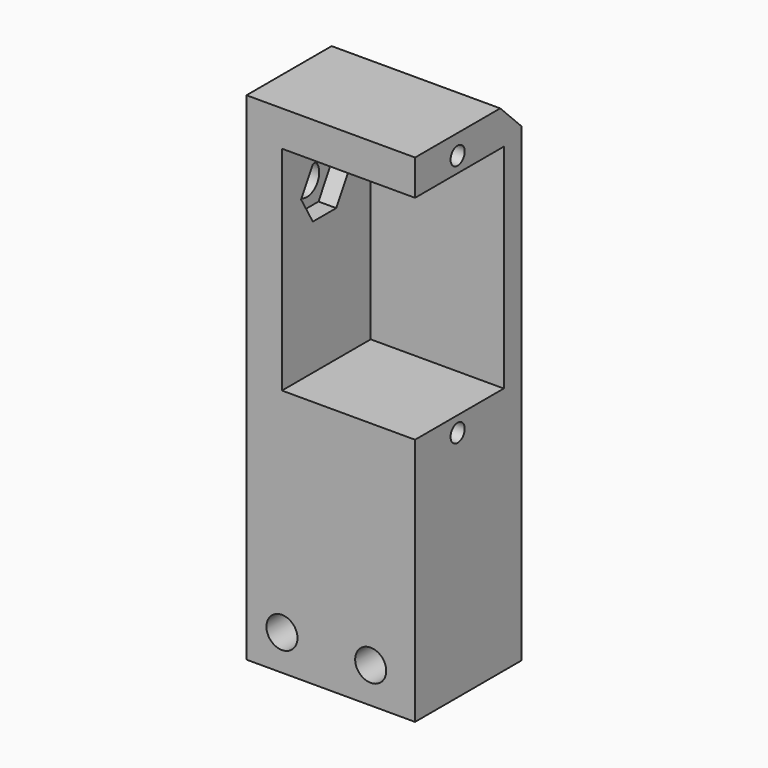
from build123d import *

# Parameters (mm, degrees)
CYLINDER075_R          = 1.75
CYLINDER075_DEPTH      = 32
PRISM001_DEPTH         = 10
SKETCH015_R            = 1
SKETCH015_W            = 24
SKETCH015_H            = 13
PAD010_DEPTH           = 30
CYLINDER073_R          = 1.75
CYLINDER073_DEPTH      = 32
CYLINDER073_ROLL_ANGLE = -90
CYLINDER074_R          = 1.75
CYLINDER074_DEPTH      = 32
CYLINDER074_ROLL_ANGLE = -90
BOX054_W               = 19
BOX054_H               = 15
BOX054_DEPTH           = 56
CHAMFER108_SIZE        = 3


with BuildPart() as cilindro016:
    # Cylinder075 → Cylinder075 (new body)
    with BuildSketch(Plane(origin=(-5, 104, 125.85), x_dir=(0, -1, 0), z_dir=(1, 0, 0))):
        Circle(CYLINDER075_R)
    extrude(amount=CYLINDER075_DEPTH)


with BuildPart() as fusion057:
    # Prism001 → Prism001 (new body)
    with BuildSketch(Plane(origin=(6, 104, 125.85), x_dir=(0, -1, 0), z_dir=(1, 0, 0))):
        Polygon((3.3, 0), (1.65, 2.857884), (-1.65, 2.857884), (-3.3, 0), (-1.65, -2.857884), (1.65, -2.857884), align=None)
    extrude(amount=PRISM001_DEPTH)

    # Fusion057: union Cilindro016
    add(cilindro016.part)


with BuildPart() as pad010:
    # Sketch015 → Pad010 (new body)
    with BuildSketch(Plane(origin=(38, -16, 143.25), x_dir=(0, 0, -1), z_dir=(1, 0, 0))):
        with Locations((37, 120)):
            Circle(SKETCH015_R)
        with Locations((9.5, 120)):
            Circle(SKETCH015_R)
        with Locations((23.25, 120)):
            Rectangle(SKETCH015_W, SKETCH015_H)
    extrude(amount=-PAD010_DEPTH)


with BuildPart() as cilindro014:
    # Cylinder073 → Cylinder073 (new body)
    with BuildSketch(Plane.XY):
        Circle(CYLINDER073_R)
    extrude(amount=CYLINDER073_DEPTH)


with BuildPart() as cilindro014_1:
    # Cylinder073 roll: moved
    add(cilindro014.part.rotate(Axis((0, 0, 0), (1, 0, 0)), CYLINDER073_ROLL_ANGLE))


with BuildPart() as cilindro014_2:
    # Cylinder073 placement: moved
    add(cilindro014_1.part.moved(Location((8, 90, 84))))


with BuildPart() as fusion056:
    # Cylinder074 → Cylinder074 (new body)
    with BuildSketch(Plane.XY):
        Circle(CYLINDER074_R)
    extrude(amount=CYLINDER074_DEPTH)


with BuildPart() as fusion056_1:
    # Cylinder074 roll: moved
    add(fusion056.part.rotate(Axis((0, 0, 0), (1, 0, 0)), CYLINDER074_ROLL_ANGLE))


with BuildPart() as fusion056_2:
    # Cylinder074 placement: moved
    add(fusion056_1.part.moved(Location((18, 90, 84))))

    # Fusion056: union Cilindro014
    add(cilindro014_2.part)


with BuildPart() as obj1:
    # Box054 → Box054 (new body)
    with BuildSketch(Plane(origin=(4, 98, 80), x_dir=(1, 0, 0), z_dir=(0, 0, 1))):
        with Locations((9.5, 7.5)):
            Rectangle(BOX054_W, BOX054_H)
    extrude(amount=BOX054_DEPTH)

    # Cut098: cut Fusion056
    add(fusion056_2.part, mode=Mode.SUBTRACT)

    # Cut099: cut Pad010
    add(pad010.part, mode=Mode.SUBTRACT)

    # Chamfer108
    chamfer108_edges = [obj1.edges().sort_by_distance(p)[0] for p in [
        (13.5, 113, 136),
    ]]
    chamfer(chamfer108_edges, length=CHAMFER108_SIZE)

    # Cut100: cut Fusion057
    add(fusion057.part, mode=Mode.SUBTRACT)


solid = obj1.part
